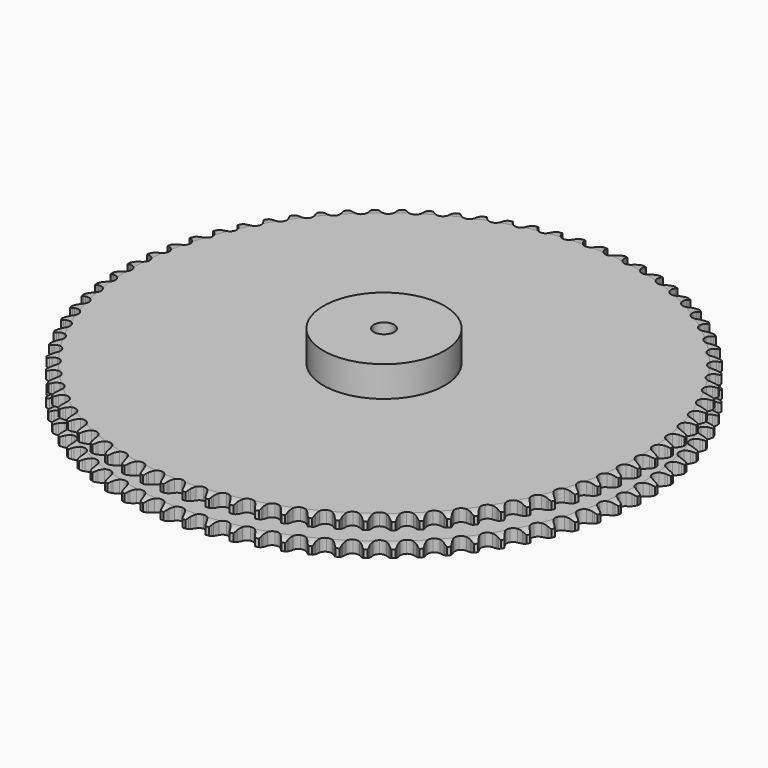
from build123d import *

# Parameters (mm, degrees)
PAD_DEPTH         = 54.6
SKETCH001_R       = 90
PAD001_DEPTH      = 100
SKETCH002_R       = 15
POCKET_DEPTH      = 0.001
POCKET_DEPTH_BACK = 100.001


with BuildPart() as part:
    # Sprocket → Pad (new body)
    with BuildSketch(Plane.XY):
        with BuildLine():
            ThreePointArc((-16.310622, 394.354491), (-13.80612, 391.401883), (-12.121859, 387.915669))
            Line((-12.121859, 387.915669), (-11.200656, 385.16668))
            ThreePointArc((-11.200656, 385.16668), (-9.748733, 381.719784), (-7.795944, 378.529834))
            ThreePointArc((-7.795944, 378.529834), (-4.378903, 375.595081), (0, 374.539545))
            ThreePointArc((0, 374.539545), (4.378903, 375.595081), (7.795944, 378.529834))
            ThreePointArc((7.795944, 378.529834), (9.748733, 381.719784), (11.200656, 385.16668))
            Line((11.200656, 385.16668), (12.121859, 387.915669))
            ThreePointArc((12.121859, 387.915669), (13.80612, 391.401883), (16.310622, 394.354491))
            ThreePointArc((16.310622, 394.354491), (18.562746, 391.205148), (19.953365, 387.591755))
            Line((19.953365, 387.591755), (20.644412, 384.776083))
            ThreePointArc((20.644412, 384.776083), (21.806734, 381.221062), (23.489429, 377.880747))
            ThreePointArc((23.489429, 377.880747), (26.652449, 374.673841), (30.92923, 373.260302))
            ThreePointArc((30.92923, 373.260302), (35.380343, 373.950627), (39.028063, 376.593179))
            Line((39.028063, 376.593179), (42.969212, 382.926197))
            ThreePointArc((42.969212, 382.926197), (43.50287, 384.274674), (44.114279, 385.589725))
            ThreePointArc((44.114279, 385.589725), (46.080676, 388.924947), (48.820449, 391.66065))
            ThreePointArc((48.820449, 391.66065), (50.80481, 388.336085), (51.892288, 384.620197))
            Line((51.892288, 384.620197), (52.348458, 381.757076))
            ThreePointArc((52.348458, 381.757076), (53.213238, 378.118213), (54.614345, 374.650351))
            ThreePointArc((54.614345, 374.650351), (57.501738, 371.193198), (61.647183, 369.431313))
            ThreePointArc((61.647183, 369.431313), (66.140099, 369.75171), (69.993581, 372.084011))
            Line((69.993581, 372.084011), (74.444245, 378.069941))
            ThreePointArc((74.444245, 378.069941), (75.087436, 379.369743), (75.805353, 380.629812))
            ThreePointArc((75.805353, 380.629812), (78.040455, 383.791259), (80.996783, 386.29137))
            ThreePointArc((80.996783, 386.29137), (82.699826, 382.814292), (83.476733, 379.021293))
            Line((83.476733, 379.021293), (83.694911, 376.13028))
            ThreePointArc((83.694911, 376.13028), (84.256243, 372.432433), (85.366191, 368.860713))
            ThreePointArc((85.366191, 368.860713), (87.958232, 365.176929), (91.944023, 363.078734))
            ThreePointArc((91.944023, 363.078734), (96.448051, 363.027015), (100.480971, 365.033131))
            Line((100.480971, 365.033131), (105.410749, 370.631083))
            ThreePointArc((105.410749, 370.631083), (106.15908, 371.873331), (106.9786, 373.069812))
            ThreePointArc((106.9786, 373.069812), (109.467138, 376.035888), (112.619826, 378.283328))
            ThreePointArc((112.619826, 378.283328), (114.029918, 374.67749), (114.490948, 370.833289))
            Line((114.490948, 370.833289), (114.469643, 367.934134))
            ThreePointArc((114.469643, 367.934134), (114.723692, 364.202562), (115.534898, 360.551383))
            ThreePointArc((115.534898, 360.551383), (117.813882, 356.666131), (121.612791, 354.245959))
            ThreePointArc((121.612791, 354.245959), (126.097165, 353.822476), (130.281975, 355.488705))
            Line((130.281975, 355.488705), (135.65719, 360.660439))
            ThreePointArc((135.65719, 360.660439), (136.505549, 361.836648), (137.421075, 362.961367))
            ThreePointArc((137.421075, 362.961367), (140.14605, 365.71181), (143.473562, 367.691227))
            ThreePointArc((143.473562, 367.691227), (144.58107, 363.98126), (144.723074, 360.112118))
            Line((144.723074, 360.112118), (144.462431, 357.224624))
            ThreePointArc((144.462431, 357.224624), (144.407461, 353.484818), (144.914385, 349.779121))
            ThreePointArc((144.914385, 349.779121), (146.864743, 345.718942), (150.450821, 342.993325))
            ThreePointArc((150.450821, 342.993325), (154.884908, 342.200972), (159.19302, 343.515931))
            Line((159.19302, 343.515931), (164.976955, 348.226119))
            ThreePointArc((164.976955, 348.226119), (165.919547, 349.328254), (166.924825, 350.373527))
            ThreePointArc((166.924825, 350.373527), (169.867622, 352.88955), (173.347228, 354.587422))
            ThreePointArc((173.347228, 354.587422), (174.144586, 350.798669), (173.966594, 346.931016))
            Line((173.966594, 346.931016), (173.468394, 344.074908))
            ThreePointArc((173.468394, 344.074908), (173.104781, 340.352415), (173.30396, 336.617513))
            ThreePointArc((173.30396, 336.617513), (174.91237, 332.410142), (178.26112, 329.397698))
            ThreePointArc((178.26112, 329.397698), (182.61463, 328.241888), (187.016616, 329.196594))
            Line((187.016616, 329.196594), (193.16976, 333.413062))
            ThreePointArc((193.16976, 333.413062), (194.200146, 334.433593), (195.288308, 335.392281))
            ThreePointArc((195.288308, 335.392281), (198.428826, 337.656696), (202.036756, 339.061426))
            ThreePointArc((202.036756, 339.061426), (202.518519, 335.219768), (202.021747, 331.380023))
            Line((202.021747, 331.380023), (201.289392, 328.574811))
            ThreePointArc((201.289392, 328.574811), (200.61962, 324.895059), (200.509693, 321.156466))
            ThreePointArc((200.509693, 321.156466), (201.765167, 316.830644), (204.853714, 313.551952))
            ThreePointArc((204.853714, 313.551952), (209.096909, 312.040579), (213.562699, 312.628511))
            Line((213.562699, 312.628511), (220.04302, 316.322455))
            ThreePointArc((220.04302, 316.322455), (221.154161, 317.254412), (222.317775, 318.119966))
            ThreePointArc((222.317775, 318.119966), (225.63456, 320.117305), (229.346169, 321.219296))
            ThreePointArc((229.346169, 321.219296), (229.509044, 317.350976), (228.696885, 313.565369))
            Line((228.696885, 313.565369), (227.73538, 310.830215))
            ThreePointArc((227.73538, 310.830215), (226.764024, 307.218341), (226.345741, 303.501594))
            ThreePointArc((226.345741, 303.501594), (227.239704, 299.086872), (230.04695, 295.564327))
            ThreePointArc((230.04695, 295.564327), (234.150843, 293.707716), (238.649932, 293.924858))
            Line((238.649932, 293.924858), (245.413163, 297.071044))
            ThreePointArc((245.413163, 297.071044), (246.597469, 297.908061), (247.828585, 298.674569))
            ThreePointArc((247.828585, 298.674569), (251.298981, 300.391187), (255.088915, 301.182912))
            ThreePointArc((255.088915, 301.182912), (254.93179, 297.314355), (253.809792, 293.608745))
            Line((253.809792, 293.608745), (252.625704, 290.962334))
            ThreePointArc((252.625704, 290.962334), (251.359399, 287.44301), (250.635619, 283.773499))
            ThreePointArc((250.635619, 283.773499), (251.161964, 279.300032), (253.668731, 275.557698))
            ThreePointArc((253.668731, 275.557698), (257.60529, 273.368532), (262.106944, 273.213401))
            Line((262.106944, 273.213401), (269.106885, 275.790338))
            ThreePointArc((269.106885, 275.790338), (270.356267, 276.526697), (271.646476, 277.188921))
            ThreePointArc((271.646476, 277.188921), (275.246775, 278.613094), (279.089145, 279.089145))
            ThreePointArc((279.089145, 279.089145), (278.613094, 275.246775), (277.188921, 271.646476))
            Line((277.188921, 271.646476), (275.790338, 269.106885))
            ThreePointArc((275.790338, 269.106885), (274.237735, 265.704152), (273.213401, 262.106944))
            ThreePointArc((273.213401, 262.106944), (273.368532, 257.60529), (275.557698, 253.668731))
            ThreePointArc((275.557698, 253.668731), (279.300032, 251.161964), (283.773499, 250.635619))
            Line((283.773499, 250.635619), (290.962334, 252.625704))
            ThreePointArc((290.962334, 252.625704), (292.268257, 253.256374), (293.608745, 253.809792))
            ThreePointArc((293.608745, 253.809792), (297.314355, 254.93179), (301.182912, 255.088915))
            ThreePointArc((301.182912, 255.088915), (300.391187, 251.298981), (298.674569, 247.828585))
            Line((298.674569, 247.828585), (297.071044, 245.413163))
            ThreePointArc((297.071044, 245.413163), (295.242749, 242.150265), (293.924858, 238.649932))
            ThreePointArc((293.924858, 238.649932), (293.707716, 234.150843), (295.564327, 230.04695))
            ThreePointArc((295.564327, 230.04695), (299.086872, 227.239704), (303.501594, 226.345741))
            Line((303.501594, 226.345741), (310.830215, 227.73538))
            ThreePointArc((310.830215, 227.73538), (312.183758, 228.256054), (313.565369, 228.696885))
            ThreePointArc((313.565369, 228.696885), (317.350976, 229.509044), (321.219296, 229.346169))
            ThreePointArc((321.219296, 229.346169), (320.117305, 225.63456), (318.119966, 222.317775))
            Line((318.119966, 222.317775), (316.322455, 220.04302))
            ThreePointArc((316.322455, 220.04302), (314.230956, 216.942246), (312.628511, 213.562699))
            ThreePointArc((312.628511, 213.562699), (312.040579, 209.096909), (313.551952, 204.853714))
            ThreePointArc((313.551952, 204.853714), (316.830644, 201.765167), (321.156466, 200.509693))
            Line((321.156466, 200.509693), (328.574811, 201.289392))
            ThreePointArc((328.574811, 201.289392), (329.966728, 201.696513), (331.380023, 202.021747))
            ThreePointArc((331.380023, 202.021747), (335.219768, 202.518519), (339.061426, 202.036756))
            ThreePointArc((339.061426, 202.036756), (337.656696, 198.428826), (335.392281, 195.288308))
            Line((335.392281, 195.288308), (333.413062, 193.16976))
            ThreePointArc((333.413062, 193.16976), (331.072647, 190.252291), (329.196594, 187.016616))
            ThreePointArc((329.196594, 187.016616), (328.241888, 182.61463), (329.397698, 178.26112))
            ThreePointArc((329.397698, 178.26112), (332.410142, 174.91237), (336.617513, 173.30396))
            Line((336.617513, 173.30396), (344.074908, 173.468394))
            ThreePointArc((344.074908, 173.468394), (345.49569, 173.759181), (346.931016, 173.966594))
            ThreePointArc((346.931016, 173.966594), (350.798669, 174.144586), (354.587422, 173.347228))
            ThreePointArc((354.587422, 173.347228), (352.88955, 169.867622), (350.373527, 166.924825))
            Line((350.373527, 166.924825), (348.226119, 164.976955))
            ThreePointArc((348.226119, 164.976955), (345.652775, 162.262721), (343.515931, 159.19302))
            ThreePointArc((343.515931, 159.19302), (342.200972, 154.884908), (342.993325, 150.450821))
            ThreePointArc((342.993325, 150.450821), (345.718942, 146.864743), (349.779121, 144.914385))
            Line((349.779121, 144.914385), (357.224624, 144.462431))
            ThreePointArc((357.224624, 144.462431), (358.664567, 144.634897), (360.112118, 144.723074))
            ThreePointArc((360.112118, 144.723074), (363.98126, 144.58107), (367.691227, 143.473562))
            ThreePointArc((367.691227, 143.473562), (365.71181, 140.14605), (362.961367, 137.421075))
            Line((362.961367, 137.421075), (360.660439, 135.65719))
            ThreePointArc((360.660439, 135.65719), (357.871745, 133.164731), (355.488705, 130.281975))
            ThreePointArc((355.488705, 130.281975), (353.822476, 126.097165), (354.245959, 121.612791))
            ThreePointArc((354.245959, 121.612791), (356.666131, 117.813882), (360.551383, 115.534898))
            Line((360.551383, 115.534898), (367.934134, 114.469643))
            ThreePointArc((367.934134, 114.469643), (369.3834, 114.522611), (370.833289, 114.490948))
            ThreePointArc((370.833289, 114.490948), (374.67749, 114.029918), (378.283328, 112.619826))
            ThreePointArc((378.283328, 112.619826), (376.035888, 109.467138), (373.069812, 106.9786))
            Line((373.069812, 106.9786), (370.631083, 105.410749))
            ThreePointArc((370.631083, 105.410749), (367.646088, 103.157092), (365.033131, 100.480971))
            ThreePointArc((365.033131, 100.480971), (363.027015, 96.448051), (363.078734, 91.944023))
            ThreePointArc((363.078734, 91.944023), (365.176929, 87.958232), (368.860713, 85.366191))
            Line((368.860713, 85.366191), (376.13028, 83.694911))
            ThreePointArc((376.13028, 83.694911), (377.578971, 83.628019), (379.021293, 83.476733))
            ThreePointArc((379.021293, 83.476733), (382.814292, 82.699826), (386.29137, 80.996783))
            ThreePointArc((386.29137, 80.996783), (383.791259, 78.040455), (380.629812, 75.805353))
            Line((380.629812, 75.805353), (378.069941, 74.444245))
            ThreePointArc((378.069941, 74.444245), (374.909035, 72.444785), (372.084011, 69.993581))
            ThreePointArc((372.084011, 69.993581), (369.75171, 66.140099), (369.431313, 61.647183))
            ThreePointArc((369.431313, 61.647183), (371.193198, 57.501738), (374.650351, 54.614345))
            Line((374.650351, 54.614345), (381.757076, 52.348458))
            ThreePointArc((381.757076, 52.348458), (383.195294, 52.162162), (384.620197, 51.892288))
            ThreePointArc((384.620197, 51.892288), (388.336085, 50.80481), (391.66065, 48.820449))
            ThreePointArc((391.66065, 48.820449), (388.924947, 46.080676), (385.589725, 44.114279))
            Line((385.589725, 44.114279), (382.926197, 42.969212))
            ThreePointArc((382.926197, 42.969212), (379.610974, 41.237606), (376.593179, 39.028063))
            ThreePointArc((376.593179, 39.028063), (373.950627, 35.380343), (373.260302, 30.92923))
            ThreePointArc((373.260302, 30.92923), (374.673841, 26.652449), (377.880747, 23.489429))
            Line((377.880747, 23.489429), (384.776083, 20.644412))
            ThreePointArc((384.776083, 20.644412), (386.194005, 20.339985), (387.591755, 19.953365))
            ThreePointArc((387.591755, 19.953365), (391.205148, 18.562746), (394.354491, 16.310622))
            ThreePointArc((394.354491, 16.310622), (391.401883, 13.80612), (387.915669, 12.121859))
            Line((387.915669, 12.121859), (385.16668, 11.200656))
            ThreePointArc((385.16668, 11.200656), (381.719784, 9.748733), (378.529834, 7.795944))
            ThreePointArc((378.529834, 7.795944), (375.595081, 4.378903), (374.539545, 0))
            ThreePointArc((374.539545, 0), (375.595081, -4.378903), (378.529834, -7.795944))
            Line((378.529834, -7.795944), (385.16668, -11.200656))
            ThreePointArc((385.16668, -11.200656), (386.55462, -11.621134), (387.915669, -12.121859))
            ThreePointArc((387.915669, -12.121859), (391.401883, -13.80612), (394.354491, -16.310622))
            ThreePointArc((394.354491, -16.310622), (391.205148, -18.562746), (387.591755, -19.953365))
            Line((387.591755, -19.953365), (384.776083, -20.644412))
            ThreePointArc((384.776083, -20.644412), (381.221062, -21.806734), (377.880747, -23.489429))
            ThreePointArc((377.880747, -23.489429), (374.673841, -26.652449), (373.260302, -30.92923))
            ThreePointArc((373.260302, -30.92923), (373.950627, -35.380343), (376.593179, -39.028063))
            Line((376.593179, -39.028063), (382.926197, -42.969212))
            ThreePointArc((382.926197, -42.969212), (384.274674, -43.50287), (385.589725, -44.114279))
            ThreePointArc((385.589725, -44.114279), (388.924947, -46.080676), (391.66065, -48.820449))
            ThreePointArc((391.66065, -48.820449), (388.336085, -50.80481), (384.620197, -51.892288))
            Line((384.620197, -51.892288), (381.757076, -52.348458))
            ThreePointArc((381.757076, -52.348458), (378.118213, -53.213238), (374.650351, -54.614345))
            ThreePointArc((374.650351, -54.614345), (371.193198, -57.501738), (369.431313, -61.647183))
            ThreePointArc((369.431313, -61.647183), (369.75171, -66.140099), (372.084011, -69.993581))
            Line((372.084011, -69.993581), (378.069941, -74.444245))
            ThreePointArc((378.069941, -74.444245), (379.369743, -75.087436), (380.629812, -75.805353))
            ThreePointArc((380.629812, -75.805353), (383.791259, -78.040455), (386.29137, -80.996783))
            ThreePointArc((386.29137, -80.996783), (382.814292, -82.699826), (379.021293, -83.476733))
            Line((379.021293, -83.476733), (376.13028, -83.694911))
            ThreePointArc((376.13028, -83.694911), (372.432433, -84.256243), (368.860713, -85.366191))
            ThreePointArc((368.860713, -85.366191), (365.176929, -87.958232), (363.078734, -91.944023))
            ThreePointArc((363.078734, -91.944023), (363.027015, -96.448051), (365.033131, -100.480971))
            Line((365.033131, -100.480971), (370.631083, -105.410749))
            ThreePointArc((370.631083, -105.410749), (371.873331, -106.15908), (373.069812, -106.9786))
            ThreePointArc((373.069812, -106.9786), (376.035888, -109.467138), (378.283328, -112.619826))
            ThreePointArc((378.283328, -112.619826), (374.67749, -114.029918), (370.833289, -114.490948))
            Line((370.833289, -114.490948), (367.934134, -114.469643))
            ThreePointArc((367.934134, -114.469643), (364.202562, -114.723692), (360.551383, -115.534898))
            ThreePointArc((360.551383, -115.534898), (356.666131, -117.813882), (354.245959, -121.612791))
            ThreePointArc((354.245959, -121.612791), (353.822476, -126.097165), (355.488705, -130.281975))
            Line((355.488705, -130.281975), (360.660439, -135.65719))
            ThreePointArc((360.660439, -135.65719), (361.836648, -136.505549), (362.961367, -137.421075))
            ThreePointArc((362.961367, -137.421075), (365.71181, -140.14605), (367.691227, -143.473562))
            ThreePointArc((367.691227, -143.473562), (363.98126, -144.58107), (360.112118, -144.723074))
            Line((360.112118, -144.723074), (357.224624, -144.462431))
            ThreePointArc((357.224624, -144.462431), (353.484818, -144.407461), (349.779121, -144.914385))
            ThreePointArc((349.779121, -144.914385), (345.718942, -146.864743), (342.993325, -150.450821))
            ThreePointArc((342.993325, -150.450821), (342.200972, -154.884908), (343.515931, -159.19302))
            Line((343.515931, -159.19302), (348.226119, -164.976955))
            ThreePointArc((348.226119, -164.976955), (349.328254, -165.919547), (350.373527, -166.924825))
            ThreePointArc((350.373527, -166.924825), (352.88955, -169.867622), (354.587422, -173.347228))
            ThreePointArc((354.587422, -173.347228), (350.798669, -174.144586), (346.931016, -173.966594))
            Line((346.931016, -173.966594), (344.074908, -173.468394))
            ThreePointArc((344.074908, -173.468394), (340.352415, -173.104781), (336.617513, -173.30396))
            ThreePointArc((336.617513, -173.30396), (332.410142, -174.91237), (329.397698, -178.26112))
            ThreePointArc((329.397698, -178.26112), (328.241888, -182.61463), (329.196594, -187.016616))
            Line((329.196594, -187.016616), (333.413062, -193.16976))
            ThreePointArc((333.413062, -193.16976), (334.433593, -194.200146), (335.392281, -195.288308))
            ThreePointArc((335.392281, -195.288308), (337.656696, -198.428826), (339.061426, -202.036756))
            ThreePointArc((339.061426, -202.036756), (335.219768, -202.518519), (331.380023, -202.021747))
            Line((331.380023, -202.021747), (328.574811, -201.289392))
            ThreePointArc((328.574811, -201.289392), (324.895059, -200.61962), (321.156466, -200.509693))
            ThreePointArc((321.156466, -200.509693), (316.830644, -201.765167), (313.551952, -204.853714))
            ThreePointArc((313.551952, -204.853714), (312.040579, -209.096909), (312.628511, -213.562699))
            Line((312.628511, -213.562699), (316.322455, -220.04302))
            ThreePointArc((316.322455, -220.04302), (317.254412, -221.154161), (318.119966, -222.317775))
            ThreePointArc((318.119966, -222.317775), (320.117305, -225.63456), (321.219296, -229.346169))
            ThreePointArc((321.219296, -229.346169), (317.350976, -229.509044), (313.565369, -228.696885))
            Line((313.565369, -228.696885), (310.830215, -227.73538))
            ThreePointArc((310.830215, -227.73538), (307.218341, -226.764024), (303.501594, -226.345741))
            ThreePointArc((303.501594, -226.345741), (299.086872, -227.239704), (295.564327, -230.04695))
            ThreePointArc((295.564327, -230.04695), (293.707716, -234.150843), (293.924858, -238.649932))
            Line((293.924858, -238.649932), (297.071044, -245.413163))
            ThreePointArc((297.071044, -245.413163), (297.908061, -246.597469), (298.674569, -247.828585))
            ThreePointArc((298.674569, -247.828585), (300.391187, -251.298981), (301.182912, -255.088915))
            ThreePointArc((301.182912, -255.088915), (297.314355, -254.93179), (293.608745, -253.809792))
            Line((293.608745, -253.809792), (290.962334, -252.625704))
            ThreePointArc((290.962334, -252.625704), (287.44301, -251.359399), (283.773499, -250.635619))
            ThreePointArc((283.773499, -250.635619), (279.300032, -251.161964), (275.557698, -253.668731))
            ThreePointArc((275.557698, -253.668731), (273.368532, -257.60529), (273.213401, -262.106944))
            Line((273.213401, -262.106944), (275.790338, -269.106885))
            ThreePointArc((275.790338, -269.106885), (276.526697, -270.356267), (277.188921, -271.646476))
            ThreePointArc((277.188921, -271.646476), (278.613094, -275.246775), (279.089145, -279.089145))
            ThreePointArc((279.089145, -279.089145), (275.246775, -278.613094), (271.646476, -277.188921))
            Line((271.646476, -277.188921), (269.106885, -275.790338))
            ThreePointArc((269.106885, -275.790338), (265.704152, -274.237735), (262.106944, -273.213401))
            ThreePointArc((262.106944, -273.213401), (257.60529, -273.368532), (253.668731, -275.557698))
            ThreePointArc((253.668731, -275.557698), (251.161964, -279.300032), (250.635619, -283.773499))
            Line((250.635619, -283.773499), (252.625704, -290.962334))
            ThreePointArc((252.625704, -290.962334), (253.256374, -292.268257), (253.809792, -293.608745))
            ThreePointArc((253.809792, -293.608745), (254.93179, -297.314355), (255.088915, -301.182912))
            ThreePointArc((255.088915, -301.182912), (251.298981, -300.391187), (247.828585, -298.674569))
            Line((247.828585, -298.674569), (245.413163, -297.071044))
            ThreePointArc((245.413163, -297.071044), (242.150265, -295.242749), (238.649932, -293.924858))
            ThreePointArc((238.649932, -293.924858), (234.150843, -293.707716), (230.04695, -295.564327))
            ThreePointArc((230.04695, -295.564327), (227.239704, -299.086872), (226.345741, -303.501594))
            Line((226.345741, -303.501594), (227.73538, -310.830215))
            ThreePointArc((227.73538, -310.830215), (228.256054, -312.183758), (228.696885, -313.565369))
            ThreePointArc((228.696885, -313.565369), (229.509044, -317.350976), (229.346169, -321.219296))
            ThreePointArc((229.346169, -321.219296), (225.63456, -320.117305), (222.317775, -318.119966))
            Line((222.317775, -318.119966), (220.04302, -316.322455))
            ThreePointArc((220.04302, -316.322455), (216.942246, -314.230956), (213.562699, -312.628511))
            ThreePointArc((213.562699, -312.628511), (209.096909, -312.040579), (204.853714, -313.551952))
            ThreePointArc((204.853714, -313.551952), (201.765167, -316.830644), (200.509693, -321.156466))
            Line((200.509693, -321.156466), (201.289392, -328.574811))
            ThreePointArc((201.289392, -328.574811), (201.696513, -329.966728), (202.021747, -331.380023))
            ThreePointArc((202.021747, -331.380023), (202.518519, -335.219768), (202.036756, -339.061426))
            ThreePointArc((202.036756, -339.061426), (198.428826, -337.656696), (195.288308, -335.392281))
            Line((195.288308, -335.392281), (193.16976, -333.413062))
            ThreePointArc((193.16976, -333.413062), (190.252291, -331.072647), (187.016616, -329.196594))
            ThreePointArc((187.016616, -329.196594), (182.61463, -328.241888), (178.26112, -329.397698))
            ThreePointArc((178.26112, -329.397698), (174.91237, -332.410142), (173.30396, -336.617513))
            Line((173.30396, -336.617513), (173.468394, -344.074908))
            ThreePointArc((173.468394, -344.074908), (173.759181, -345.49569), (173.966594, -346.931016))
            ThreePointArc((173.966594, -346.931016), (174.144586, -350.798669), (173.347228, -354.587422))
            ThreePointArc((173.347228, -354.587422), (169.867622, -352.88955), (166.924825, -350.373527))
            Line((166.924825, -350.373527), (164.976955, -348.226119))
            ThreePointArc((164.976955, -348.226119), (162.262721, -345.652775), (159.19302, -343.515931))
            ThreePointArc((159.19302, -343.515931), (154.884908, -342.200972), (150.450821, -342.993325))
            ThreePointArc((150.450821, -342.993325), (146.864743, -345.718942), (144.914385, -349.779121))
            Line((144.914385, -349.779121), (144.462431, -357.224624))
            ThreePointArc((144.462431, -357.224624), (144.634897, -358.664567), (144.723074, -360.112118))
            ThreePointArc((144.723074, -360.112118), (144.58107, -363.98126), (143.473562, -367.691227))
            ThreePointArc((143.473562, -367.691227), (140.14605, -365.71181), (137.421075, -362.961367))
            Line((137.421075, -362.961367), (135.65719, -360.660439))
            ThreePointArc((135.65719, -360.660439), (133.164731, -357.871745), (130.281975, -355.488705))
            ThreePointArc((130.281975, -355.488705), (126.097165, -353.822476), (121.612791, -354.245959))
            ThreePointArc((121.612791, -354.245959), (117.813882, -356.666131), (115.534898, -360.551383))
            Line((115.534898, -360.551383), (114.469643, -367.934134))
            ThreePointArc((114.469643, -367.934134), (114.522611, -369.3834), (114.490948, -370.833289))
            ThreePointArc((114.490948, -370.833289), (114.029918, -374.67749), (112.619826, -378.283328))
            ThreePointArc((112.619826, -378.283328), (109.467138, -376.035888), (106.9786, -373.069812))
            Line((106.9786, -373.069812), (105.410749, -370.631083))
            ThreePointArc((105.410749, -370.631083), (103.157092, -367.646088), (100.480971, -365.033131))
            ThreePointArc((100.480971, -365.033131), (96.448051, -363.027015), (91.944023, -363.078734))
            ThreePointArc((91.944023, -363.078734), (87.958232, -365.176929), (85.366191, -368.860713))
            Line((85.366191, -368.860713), (83.694911, -376.13028))
            ThreePointArc((83.694911, -376.13028), (83.628019, -377.578971), (83.476733, -379.021293))
            ThreePointArc((83.476733, -379.021293), (82.699826, -382.814292), (80.996783, -386.29137))
            ThreePointArc((80.996783, -386.29137), (78.040455, -383.791259), (75.805353, -380.629812))
            Line((75.805353, -380.629812), (74.444245, -378.069941))
            ThreePointArc((74.444245, -378.069941), (72.444785, -374.909035), (69.993581, -372.084011))
            ThreePointArc((69.993581, -372.084011), (66.140099, -369.75171), (61.647183, -369.431313))
            ThreePointArc((61.647183, -369.431313), (57.501738, -371.193198), (54.614345, -374.650351))
            Line((54.614345, -374.650351), (52.348458, -381.757076))
            ThreePointArc((52.348458, -381.757076), (52.162162, -383.195294), (51.892288, -384.620197))
            ThreePointArc((51.892288, -384.620197), (50.80481, -388.336085), (48.820449, -391.66065))
            ThreePointArc((48.820449, -391.66065), (46.080676, -388.924947), (44.114279, -385.589725))
            Line((44.114279, -385.589725), (42.969212, -382.926197))
            ThreePointArc((42.969212, -382.926197), (41.237606, -379.610974), (39.028063, -376.593179))
            ThreePointArc((39.028063, -376.593179), (35.380343, -373.950627), (30.92923, -373.260302))
            ThreePointArc((30.92923, -373.260302), (26.652449, -374.673841), (23.489429, -377.880747))
            Line((23.489429, -377.880747), (20.644412, -384.776083))
            ThreePointArc((20.644412, -384.776083), (20.339985, -386.194005), (19.953365, -387.591755))
            ThreePointArc((19.953365, -387.591755), (18.562746, -391.205148), (16.310622, -394.354491))
            ThreePointArc((16.310622, -394.354491), (13.80612, -391.401883), (12.121859, -387.915669))
            Line((12.121859, -387.915669), (11.200656, -385.16668))
            ThreePointArc((11.200656, -385.16668), (9.748733, -381.719784), (7.795944, -378.529834))
            ThreePointArc((7.795944, -378.529834), (4.378903, -375.595081), (0, -374.539545))
            ThreePointArc((0, -374.539545), (-4.378903, -375.595081), (-7.795944, -378.529834))
            Line((-7.795944, -378.529834), (-11.200656, -385.16668))
            ThreePointArc((-11.200656, -385.16668), (-11.621134, -386.55462), (-12.121859, -387.915669))
            ThreePointArc((-12.121859, -387.915669), (-13.80612, -391.401883), (-16.310622, -394.354491))
            ThreePointArc((-16.310622, -394.354491), (-18.562746, -391.205148), (-19.953365, -387.591755))
            Line((-19.953365, -387.591755), (-20.644412, -384.776083))
            ThreePointArc((-20.644412, -384.776083), (-21.806734, -381.221062), (-23.489429, -377.880747))
            ThreePointArc((-23.489429, -377.880747), (-26.652449, -374.673841), (-30.92923, -373.260302))
            ThreePointArc((-30.92923, -373.260302), (-35.380343, -373.950627), (-39.028063, -376.593179))
            Line((-39.028063, -376.593179), (-42.969212, -382.926197))
            ThreePointArc((-42.969212, -382.926197), (-43.50287, -384.274674), (-44.114279, -385.589725))
            ThreePointArc((-44.114279, -385.589725), (-46.080676, -388.924947), (-48.820449, -391.66065))
            ThreePointArc((-48.820449, -391.66065), (-50.80481, -388.336085), (-51.892288, -384.620197))
            Line((-51.892288, -384.620197), (-52.348458, -381.757076))
            ThreePointArc((-52.348458, -381.757076), (-53.213238, -378.118213), (-54.614345, -374.650351))
            ThreePointArc((-54.614345, -374.650351), (-57.501738, -371.193198), (-61.647183, -369.431313))
            ThreePointArc((-61.647183, -369.431313), (-66.140099, -369.75171), (-69.993581, -372.084011))
            Line((-69.993581, -372.084011), (-74.444245, -378.069941))
            ThreePointArc((-74.444245, -378.069941), (-75.087436, -379.369743), (-75.805353, -380.629812))
            ThreePointArc((-75.805353, -380.629812), (-78.040455, -383.791259), (-80.996783, -386.29137))
            ThreePointArc((-80.996783, -386.29137), (-82.699826, -382.814292), (-83.476733, -379.021293))
            Line((-83.476733, -379.021293), (-83.694911, -376.13028))
            ThreePointArc((-83.694911, -376.13028), (-84.256243, -372.432433), (-85.366191, -368.860713))
            ThreePointArc((-85.366191, -368.860713), (-87.958232, -365.176929), (-91.944023, -363.078734))
            ThreePointArc((-91.944023, -363.078734), (-96.448051, -363.027015), (-100.480971, -365.033131))
            Line((-100.480971, -365.033131), (-105.410749, -370.631083))
            ThreePointArc((-105.410749, -370.631083), (-106.15908, -371.873331), (-106.9786, -373.069812))
            ThreePointArc((-106.9786, -373.069812), (-109.467138, -376.035888), (-112.619826, -378.283328))
            ThreePointArc((-112.619826, -378.283328), (-114.029918, -374.67749), (-114.490948, -370.833289))
            Line((-114.490948, -370.833289), (-114.469643, -367.934134))
            ThreePointArc((-114.469643, -367.934134), (-114.723692, -364.202562), (-115.534898, -360.551383))
            ThreePointArc((-115.534898, -360.551383), (-117.813882, -356.666131), (-121.612791, -354.245959))
            ThreePointArc((-121.612791, -354.245959), (-126.097165, -353.822476), (-130.281975, -355.488705))
            Line((-130.281975, -355.488705), (-135.65719, -360.660439))
            ThreePointArc((-135.65719, -360.660439), (-136.505549, -361.836648), (-137.421075, -362.961367))
            ThreePointArc((-137.421075, -362.961367), (-140.14605, -365.71181), (-143.473562, -367.691227))
            ThreePointArc((-143.473562, -367.691227), (-144.58107, -363.98126), (-144.723074, -360.112118))
            Line((-144.723074, -360.112118), (-144.462431, -357.224624))
            ThreePointArc((-144.462431, -357.224624), (-144.407461, -353.484818), (-144.914385, -349.779121))
            ThreePointArc((-144.914385, -349.779121), (-146.864743, -345.718942), (-150.450821, -342.993325))
            ThreePointArc((-150.450821, -342.993325), (-154.884908, -342.200972), (-159.19302, -343.515931))
            Line((-159.19302, -343.515931), (-164.976955, -348.226119))
            ThreePointArc((-164.976955, -348.226119), (-165.919547, -349.328254), (-166.924825, -350.373527))
            ThreePointArc((-166.924825, -350.373527), (-169.867622, -352.88955), (-173.347228, -354.587422))
            ThreePointArc((-173.347228, -354.587422), (-174.144586, -350.798669), (-173.966594, -346.931016))
            Line((-173.966594, -346.931016), (-173.468394, -344.074908))
            ThreePointArc((-173.468394, -344.074908), (-173.104781, -340.352415), (-173.30396, -336.617513))
            ThreePointArc((-173.30396, -336.617513), (-174.91237, -332.410142), (-178.26112, -329.397698))
            ThreePointArc((-178.26112, -329.397698), (-182.61463, -328.241888), (-187.016616, -329.196594))
            Line((-187.016616, -329.196594), (-193.16976, -333.413062))
            ThreePointArc((-193.16976, -333.413062), (-194.200146, -334.433593), (-195.288308, -335.392281))
            ThreePointArc((-195.288308, -335.392281), (-198.428826, -337.656696), (-202.036756, -339.061426))
            ThreePointArc((-202.036756, -339.061426), (-202.518519, -335.219768), (-202.021747, -331.380023))
            Line((-202.021747, -331.380023), (-201.289392, -328.574811))
            ThreePointArc((-201.289392, -328.574811), (-200.61962, -324.895059), (-200.509693, -321.156466))
            ThreePointArc((-200.509693, -321.156466), (-201.765167, -316.830644), (-204.853714, -313.551952))
            ThreePointArc((-204.853714, -313.551952), (-209.096909, -312.040579), (-213.562699, -312.628511))
            Line((-213.562699, -312.628511), (-220.04302, -316.322455))
            ThreePointArc((-220.04302, -316.322455), (-221.154161, -317.254412), (-222.317775, -318.119966))
            ThreePointArc((-222.317775, -318.119966), (-225.63456, -320.117305), (-229.346169, -321.219296))
            ThreePointArc((-229.346169, -321.219296), (-229.509044, -317.350976), (-228.696885, -313.565369))
            Line((-228.696885, -313.565369), (-227.73538, -310.830215))
            ThreePointArc((-227.73538, -310.830215), (-226.764024, -307.218341), (-226.345741, -303.501594))
            ThreePointArc((-226.345741, -303.501594), (-227.239704, -299.086872), (-230.04695, -295.564327))
            ThreePointArc((-230.04695, -295.564327), (-234.150843, -293.707716), (-238.649932, -293.924858))
            Line((-238.649932, -293.924858), (-245.413163, -297.071044))
            ThreePointArc((-245.413163, -297.071044), (-246.597469, -297.908061), (-247.828585, -298.674569))
            ThreePointArc((-247.828585, -298.674569), (-251.298981, -300.391187), (-255.088915, -301.182912))
            ThreePointArc((-255.088915, -301.182912), (-254.93179, -297.314355), (-253.809792, -293.608745))
            Line((-253.809792, -293.608745), (-252.625704, -290.962334))
            ThreePointArc((-252.625704, -290.962334), (-251.359399, -287.44301), (-250.635619, -283.773499))
            ThreePointArc((-250.635619, -283.773499), (-251.161964, -279.300032), (-253.668731, -275.557698))
            ThreePointArc((-253.668731, -275.557698), (-257.60529, -273.368532), (-262.106944, -273.213401))
            Line((-262.106944, -273.213401), (-269.106885, -275.790338))
            ThreePointArc((-269.106885, -275.790338), (-270.356267, -276.526697), (-271.646476, -277.188921))
            ThreePointArc((-271.646476, -277.188921), (-275.246775, -278.613094), (-279.089145, -279.089145))
            ThreePointArc((-279.089145, -279.089145), (-278.613094, -275.246775), (-277.188921, -271.646476))
            Line((-277.188921, -271.646476), (-275.790338, -269.106885))
            ThreePointArc((-275.790338, -269.106885), (-274.237735, -265.704152), (-273.213401, -262.106944))
            ThreePointArc((-273.213401, -262.106944), (-273.368532, -257.60529), (-275.557698, -253.668731))
            ThreePointArc((-275.557698, -253.668731), (-279.300032, -251.161964), (-283.773499, -250.635619))
            Line((-283.773499, -250.635619), (-290.962334, -252.625704))
            ThreePointArc((-290.962334, -252.625704), (-292.268257, -253.256374), (-293.608745, -253.809792))
            ThreePointArc((-293.608745, -253.809792), (-297.314355, -254.93179), (-301.182912, -255.088915))
            ThreePointArc((-301.182912, -255.088915), (-300.391187, -251.298981), (-298.674569, -247.828585))
            Line((-298.674569, -247.828585), (-297.071044, -245.413163))
            ThreePointArc((-297.071044, -245.413163), (-295.242749, -242.150265), (-293.924858, -238.649932))
            ThreePointArc((-293.924858, -238.649932), (-293.707716, -234.150843), (-295.564327, -230.04695))
            ThreePointArc((-295.564327, -230.04695), (-299.086872, -227.239704), (-303.501594, -226.345741))
            Line((-303.501594, -226.345741), (-310.830215, -227.73538))
            ThreePointArc((-310.830215, -227.73538), (-312.183758, -228.256054), (-313.565369, -228.696885))
            ThreePointArc((-313.565369, -228.696885), (-317.350976, -229.509044), (-321.219296, -229.346169))
            ThreePointArc((-321.219296, -229.346169), (-320.117305, -225.63456), (-318.119966, -222.317775))
            Line((-318.119966, -222.317775), (-316.322455, -220.04302))
            ThreePointArc((-316.322455, -220.04302), (-314.230956, -216.942246), (-312.628511, -213.562699))
            ThreePointArc((-312.628511, -213.562699), (-312.040579, -209.096909), (-313.551952, -204.853714))
            ThreePointArc((-313.551952, -204.853714), (-316.830644, -201.765167), (-321.156466, -200.509693))
            Line((-321.156466, -200.509693), (-328.574811, -201.289392))
            ThreePointArc((-328.574811, -201.289392), (-329.966728, -201.696513), (-331.380023, -202.021747))
            ThreePointArc((-331.380023, -202.021747), (-335.219768, -202.518519), (-339.061426, -202.036756))
            ThreePointArc((-339.061426, -202.036756), (-337.656696, -198.428826), (-335.392281, -195.288308))
            Line((-335.392281, -195.288308), (-333.413062, -193.16976))
            ThreePointArc((-333.413062, -193.16976), (-331.072647, -190.252291), (-329.196594, -187.016616))
            ThreePointArc((-329.196594, -187.016616), (-328.241888, -182.61463), (-329.397698, -178.26112))
            ThreePointArc((-329.397698, -178.26112), (-332.410142, -174.91237), (-336.617513, -173.30396))
            Line((-336.617513, -173.30396), (-344.074908, -173.468394))
            ThreePointArc((-344.074908, -173.468394), (-345.49569, -173.759181), (-346.931016, -173.966594))
            ThreePointArc((-346.931016, -173.966594), (-350.798669, -174.144586), (-354.587422, -173.347228))
            ThreePointArc((-354.587422, -173.347228), (-352.88955, -169.867622), (-350.373527, -166.924825))
            Line((-350.373527, -166.924825), (-348.226119, -164.976955))
            ThreePointArc((-348.226119, -164.976955), (-345.652775, -162.262721), (-343.515931, -159.19302))
            ThreePointArc((-343.515931, -159.19302), (-342.200972, -154.884908), (-342.993325, -150.450821))
            ThreePointArc((-342.993325, -150.450821), (-345.718942, -146.864743), (-349.779121, -144.914385))
            Line((-349.779121, -144.914385), (-357.224624, -144.462431))
            ThreePointArc((-357.224624, -144.462431), (-358.664567, -144.634897), (-360.112118, -144.723074))
            ThreePointArc((-360.112118, -144.723074), (-363.98126, -144.58107), (-367.691227, -143.473562))
            ThreePointArc((-367.691227, -143.473562), (-365.71181, -140.14605), (-362.961367, -137.421075))
            Line((-362.961367, -137.421075), (-360.660439, -135.65719))
            ThreePointArc((-360.660439, -135.65719), (-357.871745, -133.164731), (-355.488705, -130.281975))
            ThreePointArc((-355.488705, -130.281975), (-353.822476, -126.097165), (-354.245959, -121.612791))
            ThreePointArc((-354.245959, -121.612791), (-356.666131, -117.813882), (-360.551383, -115.534898))
            Line((-360.551383, -115.534898), (-367.934134, -114.469643))
            ThreePointArc((-367.934134, -114.469643), (-369.3834, -114.522611), (-370.833289, -114.490948))
            ThreePointArc((-370.833289, -114.490948), (-374.67749, -114.029918), (-378.283328, -112.619826))
            ThreePointArc((-378.283328, -112.619826), (-376.035888, -109.467138), (-373.069812, -106.9786))
            Line((-373.069812, -106.9786), (-370.631083, -105.410749))
            ThreePointArc((-370.631083, -105.410749), (-367.646088, -103.157092), (-365.033131, -100.480971))
            ThreePointArc((-365.033131, -100.480971), (-363.027015, -96.448051), (-363.078734, -91.944023))
            ThreePointArc((-363.078734, -91.944023), (-365.176929, -87.958232), (-368.860713, -85.366191))
            Line((-368.860713, -85.366191), (-376.13028, -83.694911))
            ThreePointArc((-376.13028, -83.694911), (-377.578971, -83.628019), (-379.021293, -83.476733))
            ThreePointArc((-379.021293, -83.476733), (-382.814292, -82.699826), (-386.29137, -80.996783))
            ThreePointArc((-386.29137, -80.996783), (-383.791259, -78.040455), (-380.629812, -75.805353))
            Line((-380.629812, -75.805353), (-378.069941, -74.444245))
            ThreePointArc((-378.069941, -74.444245), (-374.909035, -72.444785), (-372.084011, -69.993581))
            ThreePointArc((-372.084011, -69.993581), (-369.75171, -66.140099), (-369.431313, -61.647183))
            ThreePointArc((-369.431313, -61.647183), (-371.193198, -57.501738), (-374.650351, -54.614345))
            Line((-374.650351, -54.614345), (-381.757076, -52.348458))
            ThreePointArc((-381.757076, -52.348458), (-383.195294, -52.162162), (-384.620197, -51.892288))
            ThreePointArc((-384.620197, -51.892288), (-388.336085, -50.80481), (-391.66065, -48.820449))
            ThreePointArc((-391.66065, -48.820449), (-388.924947, -46.080676), (-385.589725, -44.114279))
            Line((-385.589725, -44.114279), (-382.926197, -42.969212))
            ThreePointArc((-382.926197, -42.969212), (-379.610974, -41.237606), (-376.593179, -39.028063))
            ThreePointArc((-376.593179, -39.028063), (-373.950627, -35.380343), (-373.260302, -30.92923))
            ThreePointArc((-373.260302, -30.92923), (-374.673841, -26.652449), (-377.880747, -23.489429))
            Line((-377.880747, -23.489429), (-384.776083, -20.644412))
            ThreePointArc((-384.776083, -20.644412), (-386.194005, -20.339985), (-387.591755, -19.953365))
            ThreePointArc((-387.591755, -19.953365), (-391.205148, -18.562746), (-394.354491, -16.310622))
            ThreePointArc((-394.354491, -16.310622), (-391.401883, -13.80612), (-387.915669, -12.121859))
            Line((-387.915669, -12.121859), (-385.16668, -11.200656))
            ThreePointArc((-385.16668, -11.200656), (-381.719784, -9.748733), (-378.529834, -7.795944))
            ThreePointArc((-378.529834, -7.795944), (-375.595081, -4.378903), (-374.539545, 0))
            ThreePointArc((-374.539545, 0), (-375.595081, 4.378903), (-378.529834, 7.795944))
            Line((-378.529834, 7.795944), (-385.16668, 11.200656))
            ThreePointArc((-385.16668, 11.200656), (-386.55462, 11.621134), (-387.915669, 12.121859))
            ThreePointArc((-387.915669, 12.121859), (-391.401883, 13.80612), (-394.354491, 16.310622))
            ThreePointArc((-394.354491, 16.310622), (-391.205148, 18.562746), (-387.591755, 19.953365))
            Line((-387.591755, 19.953365), (-384.776083, 20.644412))
            ThreePointArc((-384.776083, 20.644412), (-381.221062, 21.806734), (-377.880747, 23.489429))
            ThreePointArc((-377.880747, 23.489429), (-374.673841, 26.652449), (-373.260302, 30.92923))
            ThreePointArc((-373.260302, 30.92923), (-373.950627, 35.380343), (-376.593179, 39.028063))
            Line((-376.593179, 39.028063), (-382.926197, 42.969212))
            ThreePointArc((-382.926197, 42.969212), (-384.274674, 43.50287), (-385.589725, 44.114279))
            ThreePointArc((-385.589725, 44.114279), (-388.924947, 46.080676), (-391.66065, 48.820449))
            ThreePointArc((-391.66065, 48.820449), (-388.336085, 50.80481), (-384.620197, 51.892288))
            Line((-384.620197, 51.892288), (-381.757076, 52.348458))
            ThreePointArc((-381.757076, 52.348458), (-378.118213, 53.213238), (-374.650351, 54.614345))
            ThreePointArc((-374.650351, 54.614345), (-371.193198, 57.501738), (-369.431313, 61.647183))
            ThreePointArc((-369.431313, 61.647183), (-369.75171, 66.140099), (-372.084011, 69.993581))
            Line((-372.084011, 69.993581), (-378.069941, 74.444245))
            ThreePointArc((-378.069941, 74.444245), (-379.369743, 75.087436), (-380.629812, 75.805353))
            ThreePointArc((-380.629812, 75.805353), (-383.791259, 78.040455), (-386.29137, 80.996783))
            ThreePointArc((-386.29137, 80.996783), (-382.814292, 82.699826), (-379.021293, 83.476733))
            Line((-379.021293, 83.476733), (-376.13028, 83.694911))
            ThreePointArc((-376.13028, 83.694911), (-372.432433, 84.256243), (-368.860713, 85.366191))
            ThreePointArc((-368.860713, 85.366191), (-365.176929, 87.958232), (-363.078734, 91.944023))
            ThreePointArc((-363.078734, 91.944023), (-363.027015, 96.448051), (-365.033131, 100.480971))
            Line((-365.033131, 100.480971), (-370.631083, 105.410749))
            ThreePointArc((-370.631083, 105.410749), (-371.873331, 106.15908), (-373.069812, 106.9786))
            ThreePointArc((-373.069812, 106.9786), (-376.035888, 109.467138), (-378.283328, 112.619826))
            ThreePointArc((-378.283328, 112.619826), (-374.67749, 114.029918), (-370.833289, 114.490948))
            Line((-370.833289, 114.490948), (-367.934134, 114.469643))
            ThreePointArc((-367.934134, 114.469643), (-364.202562, 114.723692), (-360.551383, 115.534898))
            ThreePointArc((-360.551383, 115.534898), (-356.666131, 117.813882), (-354.245959, 121.612791))
            ThreePointArc((-354.245959, 121.612791), (-353.822476, 126.097165), (-355.488705, 130.281975))
            Line((-355.488705, 130.281975), (-360.660439, 135.65719))
            ThreePointArc((-360.660439, 135.65719), (-361.836648, 136.505549), (-362.961367, 137.421075))
            ThreePointArc((-362.961367, 137.421075), (-365.71181, 140.14605), (-367.691227, 143.473562))
            ThreePointArc((-367.691227, 143.473562), (-363.98126, 144.58107), (-360.112118, 144.723074))
            Line((-360.112118, 144.723074), (-357.224624, 144.462431))
            ThreePointArc((-357.224624, 144.462431), (-353.484818, 144.407461), (-349.779121, 144.914385))
            ThreePointArc((-349.779121, 144.914385), (-345.718942, 146.864743), (-342.993325, 150.450821))
            ThreePointArc((-342.993325, 150.450821), (-342.200972, 154.884908), (-343.515931, 159.19302))
            Line((-343.515931, 159.19302), (-348.226119, 164.976955))
            ThreePointArc((-348.226119, 164.976955), (-349.328254, 165.919547), (-350.373527, 166.924825))
            ThreePointArc((-350.373527, 166.924825), (-352.88955, 169.867622), (-354.587422, 173.347228))
            ThreePointArc((-354.587422, 173.347228), (-350.798669, 174.144586), (-346.931016, 173.966594))
            Line((-346.931016, 173.966594), (-344.074908, 173.468394))
            ThreePointArc((-344.074908, 173.468394), (-340.352415, 173.104781), (-336.617513, 173.30396))
            ThreePointArc((-336.617513, 173.30396), (-332.410142, 174.91237), (-329.397698, 178.26112))
            ThreePointArc((-329.397698, 178.26112), (-328.241888, 182.61463), (-329.196594, 187.016616))
            Line((-329.196594, 187.016616), (-333.413062, 193.16976))
            ThreePointArc((-333.413062, 193.16976), (-334.433593, 194.200146), (-335.392281, 195.288308))
            ThreePointArc((-335.392281, 195.288308), (-337.656696, 198.428826), (-339.061426, 202.036756))
            ThreePointArc((-339.061426, 202.036756), (-335.219768, 202.518519), (-331.380023, 202.021747))
            Line((-331.380023, 202.021747), (-328.574811, 201.289392))
            ThreePointArc((-328.574811, 201.289392), (-324.895059, 200.61962), (-321.156466, 200.509693))
            ThreePointArc((-321.156466, 200.509693), (-316.830644, 201.765167), (-313.551952, 204.853714))
            ThreePointArc((-313.551952, 204.853714), (-312.040579, 209.096909), (-312.628511, 213.562699))
            Line((-312.628511, 213.562699), (-316.322455, 220.04302))
            ThreePointArc((-316.322455, 220.04302), (-317.254412, 221.154161), (-318.119966, 222.317775))
            ThreePointArc((-318.119966, 222.317775), (-320.117305, 225.63456), (-321.219296, 229.346169))
            ThreePointArc((-321.219296, 229.346169), (-317.350976, 229.509044), (-313.565369, 228.696885))
            Line((-313.565369, 228.696885), (-310.830215, 227.73538))
            ThreePointArc((-310.830215, 227.73538), (-307.218341, 226.764024), (-303.501594, 226.345741))
            ThreePointArc((-303.501594, 226.345741), (-299.086872, 227.239704), (-295.564327, 230.04695))
            ThreePointArc((-295.564327, 230.04695), (-293.707716, 234.150843), (-293.924858, 238.649932))
            Line((-293.924858, 238.649932), (-297.071044, 245.413163))
            ThreePointArc((-297.071044, 245.413163), (-297.908061, 246.597469), (-298.674569, 247.828585))
            ThreePointArc((-298.674569, 247.828585), (-300.391187, 251.298981), (-301.182912, 255.088915))
            ThreePointArc((-301.182912, 255.088915), (-297.314355, 254.93179), (-293.608745, 253.809792))
            Line((-293.608745, 253.809792), (-290.962334, 252.625704))
            ThreePointArc((-290.962334, 252.625704), (-287.44301, 251.359399), (-283.773499, 250.635619))
            ThreePointArc((-283.773499, 250.635619), (-279.300032, 251.161964), (-275.557698, 253.668731))
            ThreePointArc((-275.557698, 253.668731), (-273.368532, 257.60529), (-273.213401, 262.106944))
            Line((-273.213401, 262.106944), (-275.790338, 269.106885))
            ThreePointArc((-275.790338, 269.106885), (-276.526697, 270.356267), (-277.188921, 271.646476))
            ThreePointArc((-277.188921, 271.646476), (-278.613094, 275.246775), (-279.089145, 279.089145))
            ThreePointArc((-279.089145, 279.089145), (-275.246775, 278.613094), (-271.646476, 277.188921))
            Line((-271.646476, 277.188921), (-269.106885, 275.790338))
            ThreePointArc((-269.106885, 275.790338), (-265.704152, 274.237735), (-262.106944, 273.213401))
            ThreePointArc((-262.106944, 273.213401), (-257.60529, 273.368532), (-253.668731, 275.557698))
            ThreePointArc((-253.668731, 275.557698), (-251.161964, 279.300032), (-250.635619, 283.773499))
            Line((-250.635619, 283.773499), (-252.625704, 290.962334))
            ThreePointArc((-252.625704, 290.962334), (-253.256374, 292.268257), (-253.809792, 293.608745))
            ThreePointArc((-253.809792, 293.608745), (-254.93179, 297.314355), (-255.088915, 301.182912))
            ThreePointArc((-255.088915, 301.182912), (-251.298981, 300.391187), (-247.828585, 298.674569))
            Line((-247.828585, 298.674569), (-245.413163, 297.071044))
            ThreePointArc((-245.413163, 297.071044), (-242.150265, 295.242749), (-238.649932, 293.924858))
            ThreePointArc((-238.649932, 293.924858), (-234.150843, 293.707716), (-230.04695, 295.564327))
            ThreePointArc((-230.04695, 295.564327), (-227.239704, 299.086872), (-226.345741, 303.501594))
            Line((-226.345741, 303.501594), (-227.73538, 310.830215))
            ThreePointArc((-227.73538, 310.830215), (-228.256054, 312.183758), (-228.696885, 313.565369))
            ThreePointArc((-228.696885, 313.565369), (-229.509044, 317.350976), (-229.346169, 321.219296))
            ThreePointArc((-229.346169, 321.219296), (-225.63456, 320.117305), (-222.317775, 318.119966))
            Line((-222.317775, 318.119966), (-220.04302, 316.322455))
            ThreePointArc((-220.04302, 316.322455), (-216.942246, 314.230956), (-213.562699, 312.628511))
            ThreePointArc((-213.562699, 312.628511), (-209.096909, 312.040579), (-204.853714, 313.551952))
            ThreePointArc((-204.853714, 313.551952), (-201.765167, 316.830644), (-200.509693, 321.156466))
            Line((-200.509693, 321.156466), (-201.289392, 328.574811))
            ThreePointArc((-201.289392, 328.574811), (-201.696513, 329.966728), (-202.021747, 331.380023))
            ThreePointArc((-202.021747, 331.380023), (-202.518519, 335.219768), (-202.036756, 339.061426))
            ThreePointArc((-202.036756, 339.061426), (-198.428826, 337.656696), (-195.288308, 335.392281))
            Line((-195.288308, 335.392281), (-193.16976, 333.413062))
            ThreePointArc((-193.16976, 333.413062), (-190.252291, 331.072647), (-187.016616, 329.196594))
            ThreePointArc((-187.016616, 329.196594), (-182.61463, 328.241888), (-178.26112, 329.397698))
            ThreePointArc((-178.26112, 329.397698), (-174.91237, 332.410142), (-173.30396, 336.617513))
            Line((-173.30396, 336.617513), (-173.468394, 344.074908))
            ThreePointArc((-173.468394, 344.074908), (-173.759181, 345.49569), (-173.966594, 346.931016))
            ThreePointArc((-173.966594, 346.931016), (-174.144586, 350.798669), (-173.347228, 354.587422))
            ThreePointArc((-173.347228, 354.587422), (-169.867622, 352.88955), (-166.924825, 350.373527))
            Line((-166.924825, 350.373527), (-164.976955, 348.226119))
            ThreePointArc((-164.976955, 348.226119), (-162.262721, 345.652775), (-159.19302, 343.515931))
            ThreePointArc((-159.19302, 343.515931), (-154.884908, 342.200972), (-150.450821, 342.993325))
            ThreePointArc((-150.450821, 342.993325), (-146.864743, 345.718942), (-144.914385, 349.779121))
            Line((-144.914385, 349.779121), (-144.462431, 357.224624))
            ThreePointArc((-144.462431, 357.224624), (-144.634897, 358.664567), (-144.723074, 360.112118))
            ThreePointArc((-144.723074, 360.112118), (-144.58107, 363.98126), (-143.473562, 367.691227))
            ThreePointArc((-143.473562, 367.691227), (-140.14605, 365.71181), (-137.421075, 362.961367))
            Line((-137.421075, 362.961367), (-135.65719, 360.660439))
            ThreePointArc((-135.65719, 360.660439), (-133.164731, 357.871745), (-130.281975, 355.488705))
            ThreePointArc((-130.281975, 355.488705), (-126.097165, 353.822476), (-121.612791, 354.245959))
            ThreePointArc((-121.612791, 354.245959), (-117.813882, 356.666131), (-115.534898, 360.551383))
            Line((-115.534898, 360.551383), (-114.469643, 367.934134))
            ThreePointArc((-114.469643, 367.934134), (-114.522611, 369.3834), (-114.490948, 370.833289))
            ThreePointArc((-114.490948, 370.833289), (-114.029918, 374.67749), (-112.619826, 378.283328))
            ThreePointArc((-112.619826, 378.283328), (-109.467138, 376.035888), (-106.9786, 373.069812))
            Line((-106.9786, 373.069812), (-105.410749, 370.631083))
            ThreePointArc((-105.410749, 370.631083), (-103.157092, 367.646088), (-100.480971, 365.033131))
            ThreePointArc((-100.480971, 365.033131), (-96.448051, 363.027015), (-91.944023, 363.078734))
            ThreePointArc((-91.944023, 363.078734), (-87.958232, 365.176929), (-85.366191, 368.860713))
            Line((-85.366191, 368.860713), (-83.694911, 376.13028))
            ThreePointArc((-83.694911, 376.13028), (-83.628019, 377.578971), (-83.476733, 379.021293))
            ThreePointArc((-83.476733, 379.021293), (-82.699826, 382.814292), (-80.996783, 386.29137))
            ThreePointArc((-80.996783, 386.29137), (-78.040455, 383.791259), (-75.805353, 380.629812))
            Line((-75.805353, 380.629812), (-74.444245, 378.069941))
            ThreePointArc((-74.444245, 378.069941), (-72.444785, 374.909035), (-69.993581, 372.084011))
            ThreePointArc((-69.993581, 372.084011), (-66.140099, 369.75171), (-61.647183, 369.431313))
            ThreePointArc((-61.647183, 369.431313), (-57.501738, 371.193198), (-54.614345, 374.650351))
            Line((-54.614345, 374.650351), (-52.348458, 381.757076))
            ThreePointArc((-52.348458, 381.757076), (-52.162162, 383.195294), (-51.892288, 384.620197))
            ThreePointArc((-51.892288, 384.620197), (-50.80481, 388.336085), (-48.820449, 391.66065))
            ThreePointArc((-48.820449, 391.66065), (-46.080676, 388.924947), (-44.114279, 385.589725))
            Line((-44.114279, 385.589725), (-42.969212, 382.926197))
            ThreePointArc((-42.969212, 382.926197), (-41.237606, 379.610974), (-39.028063, 376.593179))
            ThreePointArc((-39.028063, 376.593179), (-35.380343, 373.950627), (-30.92923, 373.260302))
            ThreePointArc((-30.92923, 373.260302), (-26.652449, 374.673841), (-23.489429, 377.880747))
            Line((-23.489429, 377.880747), (-20.644412, 384.776083))
            ThreePointArc((-20.644412, 384.776083), (-20.339985, 386.194005), (-19.953365, 387.591755))
            ThreePointArc((-19.953365, 387.591755), (-18.562746, 391.205148), (-16.310622, 394.354491))
        make_face()
    extrude(amount=PAD_DEPTH)

    # Sketch → Groove (revolve, cut)
    with BuildSketch(Plane.XZ):
        with BuildLine():
            ThreePointArc((377.198368, 0), (384.681683, 0.887302), (391.75, 3.5))
            Line((391.75, 3.5), (391.75, 14.7))
            ThreePointArc((391.75, 14.7), (384.681683, 17.312698), (377.198368, 18.2))
            Line((90, 18.2), (377.198368, 18.2))
            Line((90, 36.4), (90, 18.2))
            Line((377.198368, 36.4), (90, 36.4))
            ThreePointArc((377.198368, 36.4), (384.681683, 37.287302), (391.75, 39.9))
            Line((391.75, 39.9), (391.75, 51.1))
            ThreePointArc((391.75, 51.1), (384.681683, 53.712698), (377.198368, 54.6))
            Line((377.198368, 54.6), (401.75, 54.6))
            Line((401.75, 54.6), (401.75, 0))
            Line((377.198368, 0), (401.75, 0))
        make_face()
    revolve(axis=Axis((0, 0, 0), (0, 0, 1)), mode=Mode.SUBTRACT)

    # Sketch001 → Pad001 (join)
    with BuildSketch(Plane.XY):
        Circle(SKETCH001_R)
    extrude(amount=PAD001_DEPTH)

    # Sketch002 → Pocket (cut, two sides)
    with BuildSketch(Plane.XY) as pocket_sk:
        Circle(SKETCH002_R)
    extrude(amount=-POCKET_DEPTH, mode=Mode.SUBTRACT)
    extrude(pocket_sk.sketch, amount=POCKET_DEPTH_BACK, mode=Mode.SUBTRACT)


solid = part.part
